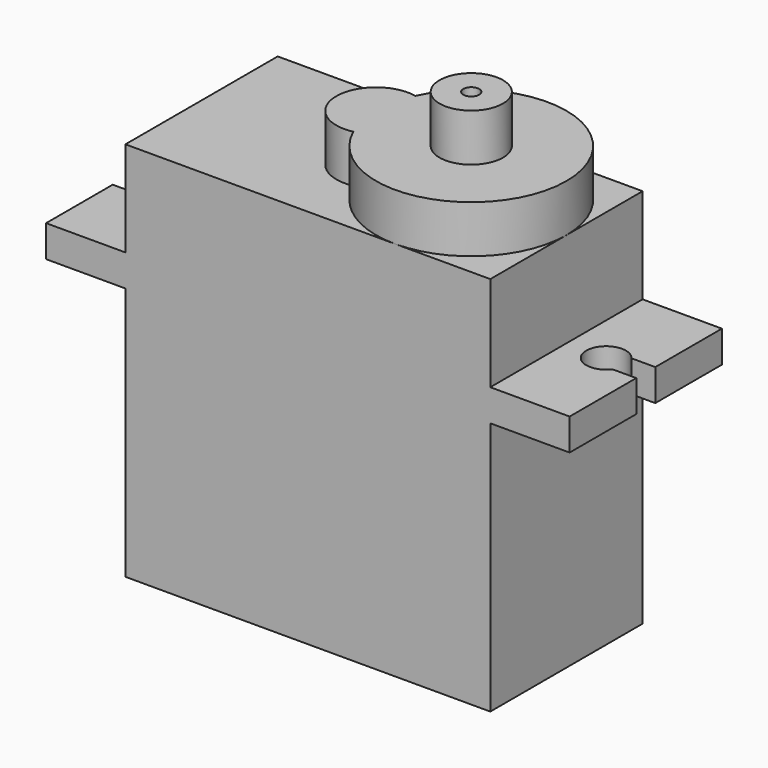
from build123d import *

# Parameters (mm, degrees)
F0_W      = 23
F0_H      = 12
F1_DEPTH  = 16
F2_W      = 33
F2_H      = 12
F3_DEPTH  = 2
F4_W      = 23
F4_H      = 12
F5_DEPTH  = 6
F7_DEPTH  = 3
F8_R      = 2
F9_DEPTH  = 3
F11_DEPTH = 18.001
F12_R     = 0.5
F13_DEPTH = 3


with BuildPart() as f1:
    # F0 (on Top) → F1 (new body)
    with BuildSketch(Plane.XY):
        Rectangle(F0_W, F0_H)
    extrude(amount=F1_DEPTH)

    # F2 (on face) → F3 (join)
    with BuildSketch(Plane.XY.offset(16)):
        Rectangle(F2_W, F2_H)
    extrude(amount=F3_DEPTH)

    # F4 (on face) → F5 (join)
    with BuildSketch(Plane.XY.offset(18)):
        Rectangle(F4_W, F4_H)
    extrude(amount=F5_DEPTH)

    # F6 (on face) → F7 (join)
    with BuildSketch(Plane.XY.offset(24)):
        with BuildLine():
            ThreePointArc((0.0208333333, -2.4451447071), (6.75, -5.8683472972), (11.5, 0))
            ThreePointArc((11.5, 0), (6.75, 5.8683472972), (0.0208333333, 2.4451447071))
            ThreePointArc((0.0208333333, 2.4451447071), (1.4432039694, 1.572882174), (2, 0))
            ThreePointArc((2, 0), (1.4432039694, -1.572882174), (0.0208333333, -2.4451447071))
        make_face()
        with BuildLine():
            ThreePointArc((2, 0), (1.4432039694, 1.572882174), (0.0208333333, 2.4451447071))
            ThreePointArc((0.0208333333, 2.4451447071), (-0.5, 0), (0.0208333333, -2.4451447071))
            ThreePointArc((0.0208333333, -2.4451447071), (1.4432039694, -1.572882174), (2, 0))
        make_face()
        with BuildLine():
            ThreePointArc((0.0208333333, -2.4451447071), (-0.5, 0), (0.0208333333, 2.4451447071))
            ThreePointArc((0.0208333333, 2.4451447071), (-3, 0), (0.0208333333, -2.4451447071))
        make_face()
    extrude(amount=F7_DEPTH)

    # F8 (on face) → F9 (join)
    with BuildSketch(Plane.XY.offset(27)):
        with Locations((5.5, 0)):
            Circle(F8_R)
    extrude(amount=F9_DEPTH)

    # F10 (on face) → F11 (cut, through all)
    with BuildSketch(Plane.XY.offset(18)):
        with BuildLine():
            ThreePointArc((-15, -0.75), (-13.6047152925, -1.1858541226), (-12.75, 0))
            ThreePointArc((-12.75, 0), (-13.6047152925, 1.1858541226), (-15, 0.75))
            Line((-15, 0.75), (-15, -0.75))
        make_face()
        with BuildLine():
            Line((-15, -0.75), (-15, 0.75))
            ThreePointArc((-15, 0.75), (-15.25, 0), (-15, -0.75))
        make_face()
        with BuildLine():
            ThreePointArc((-15, -0.75), (-15.25, 0), (-15, 0.75))
            Line((-15, 0.75), (-16.5, 0.75))
            Line((-16.5, 0.75), (-16.5, -0.75))
            Line((-16.5, -0.75), (-15, -0.75))
        make_face()
        with BuildLine():
            ThreePointArc((15, -0.75), (15.1858541226, -0.3952847075), (15.25, 0))
            ThreePointArc((15.25, 0), (15.1858541226, 0.3952847075), (15, 0.75))
            Line((15, 0.75), (15, -0.75))
        make_face()
        with BuildLine():
            ThreePointArc((15, 0.75), (15.1858541226, 0.3952847075), (15.25, 0))
            ThreePointArc((15.25, 0), (15.1858541226, -0.3952847075), (15, -0.75))
            Line((15, -0.75), (16.5, -0.75))
            Line((16.5, -0.75), (16.5, 0.75))
            Line((16.5, 0.75), (15, 0.75))
        make_face()
        with BuildLine():
            Line((15, -0.75), (15, 0.75))
            ThreePointArc((15, 0.75), (12.75, 0), (15, -0.75))
        make_face()
    extrude(amount=-F11_DEPTH, mode=Mode.SUBTRACT)

    # F12 (on face) → F13 (cut)
    with BuildSketch(Plane.XY.offset(30)):
        with Locations((5.5, 0)):
            Circle(F12_R)
    extrude(amount=-F13_DEPTH, mode=Mode.SUBTRACT)


solid = f1.part
